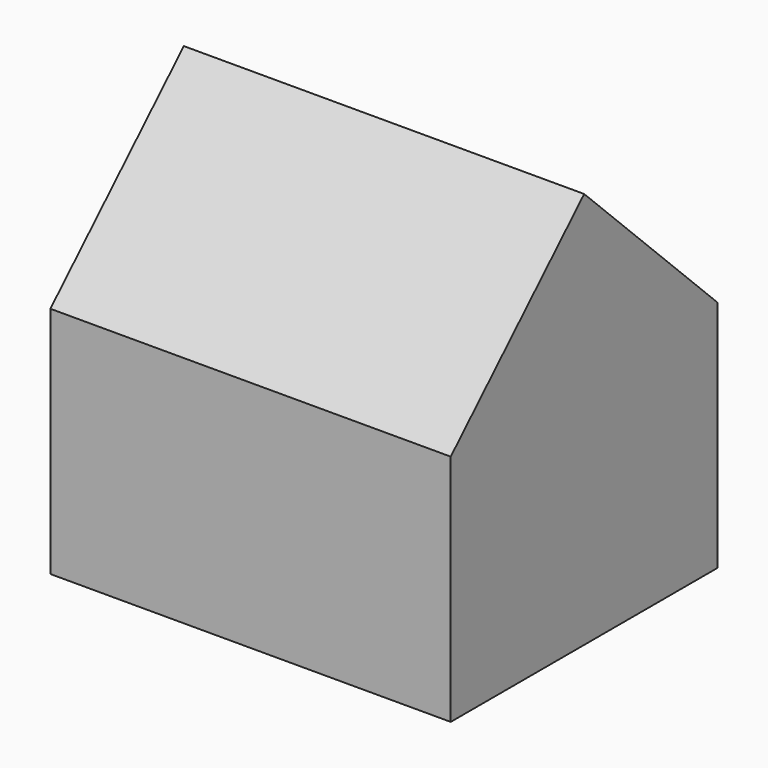
from build123d import *

# Parameters (mm, degrees)
F0_W     = 152.4
F0_H     = 88.9
F1_DEPTH = 127
F3_DEPTH = 152.4


with BuildPart() as f1:
    # F0 (on Front) → F1 (new body)
    with BuildSketch(Plane.XZ):
        Rectangle(F0_W, F0_H)
    extrude(amount=F1_DEPTH)

    # F2 (on face) → F3 (join)
    with BuildSketch(Plane.YZ.offset(76.2)):
        Polygon((-63.5, 106.667039), (-127, 44.45), (0, 44.45), align=None)
    extrude(amount=-F3_DEPTH)


solid = f1.part
